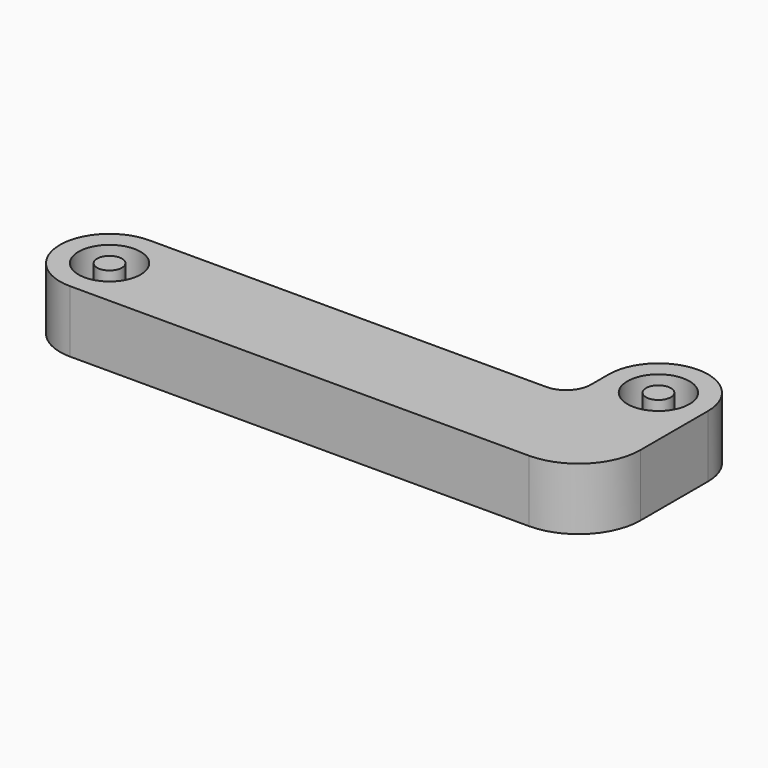
from build123d import *

# Parameters (mm, degrees)
F0_R     = 2.5
F0_R_2   = 1
F1_DEPTH = 2.5


with BuildPart() as f1:
    # F0 (on Top) → F1 (new body, symmetric)
    with BuildSketch(Plane.XY):
        with BuildLine():
            Line((32, 4), (0, 4))
            ThreePointArc((0, 4), (-4, 0), (0, -4))
            Line((0, -4), (37, -4))
            ThreePointArc((37, -4), (40.535534, -2.535534), (42, 1))
            Line((42, 1), (42, 7.8))
            ThreePointArc((42, 7.8), (38, 11.8), (34, 7.8))
            Line((34, 7.8), (34, 6))
            ThreePointArc((34, 6), (33.414214, 4.585786), (32, 4))
        make_face()
        Circle(F0_R, mode=Mode.SUBTRACT)
        with Locations((38, 7.8)):
            Circle(F0_R, mode=Mode.SUBTRACT)
        with Locations((38, 7.8)):
            Circle(F0_R_2)
        Circle(F0_R_2)
    extrude(amount=F1_DEPTH, both=True)


solid = f1.part
